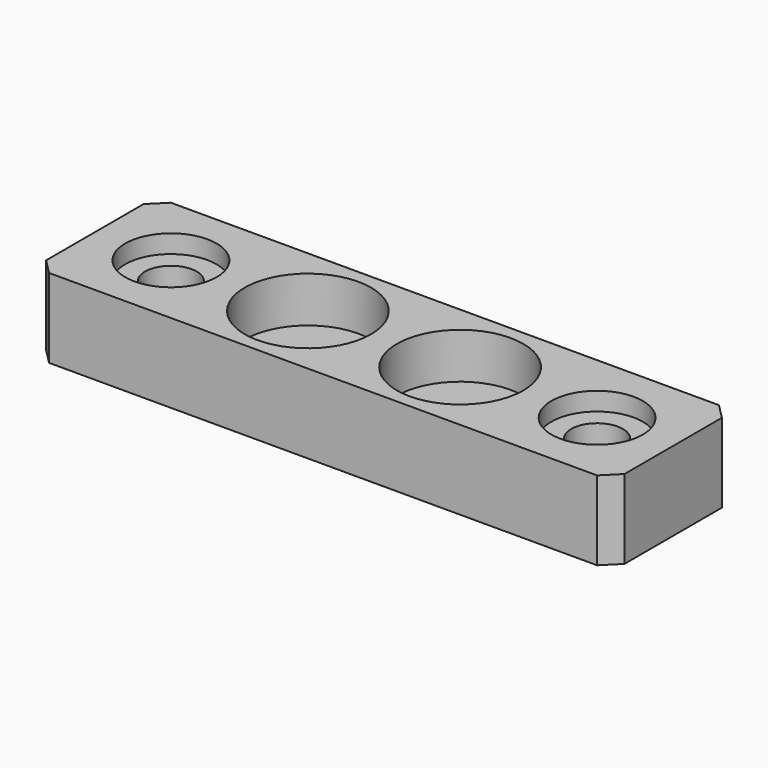
from build123d import *

# Parameters (mm, degrees)
CYLINDER012_R      = 4.15
CYLINDER012_DEPTH  = 3
CYLINDER013_R      = 4.15
CYLINDER013_DEPTH  = 3
CYLINDER016_R      = 3
CYLINDER016_DEPTH  = 2
CYLINDER017_R      = 3
CYLINDER017_DEPTH  = 2
CYLINDER015_R      = 1.7
CYLINDER015_DEPTH  = 10
CYLINDER014_R      = 1.7
CYLINDER014_DEPTH  = 10
BOX008_W           = 38
BOX008_H           = 10
BOX008_DEPTH       = 5.2
CHAMFER005008_SIZE = 1


with BuildPart() as cylinder012:
    # Cylinder012 → Cylinder012 (new body)
    with BuildSketch(Plane(origin=(-5, 0, 2.2), x_dir=(1, 0, 0), z_dir=(0, 0, 1))):
        Circle(CYLINDER012_R)
    extrude(amount=CYLINDER012_DEPTH)


with BuildPart() as fusion020006007003002013006002_body:
    # Cylinder013 → Cylinder013 (new body)
    with BuildSketch(Plane(origin=(5, 0, 2.2), x_dir=(1, 0, 0), z_dir=(0, 0, 1))):
        Circle(CYLINDER013_R)
    extrude(amount=CYLINDER013_DEPTH)

    # Fusion020006007003002013006002005002002015002007: union Cylinder012
    add(cylinder012.part)


with BuildPart() as cylinder016:
    # Cylinder016 → Cylinder016 (new body)
    with BuildSketch(Plane(origin=(14, 0, 0), x_dir=(1, 0, 0), z_dir=(0, 0, 1))):
        Circle(CYLINDER016_R)
    extrude(amount=CYLINDER016_DEPTH)


with BuildPart() as fusion020006007003002013006002_body2:
    # Cylinder017 → Cylinder017 (new body)
    with BuildSketch(Plane(origin=(-14, 0, 0), x_dir=(1, 0, 0), z_dir=(0, 0, 1))):
        Circle(CYLINDER017_R)
    extrude(amount=CYLINDER017_DEPTH)

    # Fusion020006007003002013006002005002002015002005: union Cylinder016
    add(cylinder016.part)


with BuildPart() as fusion020006007003002013006002_body2_1:
    # Fusion020006007003002013006002005002002015002005 placement: moved
    add(fusion020006007003002013006002_body2.part.moved(Location((0, 0, 4))))


with BuildPart() as cylinder015:
    # Cylinder015 → Cylinder015 (new body)
    with BuildSketch(Plane(origin=(14, 0, 0), x_dir=(1, 0, 0), z_dir=(0, 0, 1))):
        Circle(CYLINDER015_R)
    extrude(amount=CYLINDER015_DEPTH)


with BuildPart() as fusion020006007003002013006002_body3:
    # Cylinder014 → Cylinder014 (new body)
    with BuildSketch(Plane(origin=(-14, 0, 0), x_dir=(1, 0, 0), z_dir=(0, 0, 1))):
        Circle(CYLINDER014_R)
    extrude(amount=CYLINDER014_DEPTH)

    # Fusion020006007003002013006002005002002015002006: union Cylinder015
    add(cylinder015.part)


with BuildPart() as obj1:
    # Box008 → Box008 (new body)
    with BuildSketch(Plane(origin=(-19, -5, 0), x_dir=(1, 0, 0), z_dir=(0, 0, 1))):
        with Locations((19, 5)):
            Rectangle(BOX008_W, BOX008_H)
    extrude(amount=BOX008_DEPTH)

    # Chamfer005008
    chamfer005008_edges = [obj1.edges().sort_by_distance(p)[0] for p in [
        (-19, -5, 2.6),
        (-19, 5, 2.6),
        (19, -5, 2.6),
        (19, 5, 2.6),
    ]]
    chamfer(chamfer005008_edges, length=CHAMFER005008_SIZE)

    # Cut004: cut Fusion020006007003002013006002 body3
    add(fusion020006007003002013006002_body3.part, mode=Mode.SUBTRACT)

    # Cut005: cut Fusion020006007003002013006002 body2
    add(fusion020006007003002013006002_body2_1.part, mode=Mode.SUBTRACT)

    # Cut006: cut Fusion020006007003002013006002 body
    add(fusion020006007003002013006002_body.part, mode=Mode.SUBTRACT)


with BuildPart() as obj1_1:
    # Cut006 placement: moved
    add(obj1.part.moved(Location((0, 43, 0))))


solid = obj1_1.part
